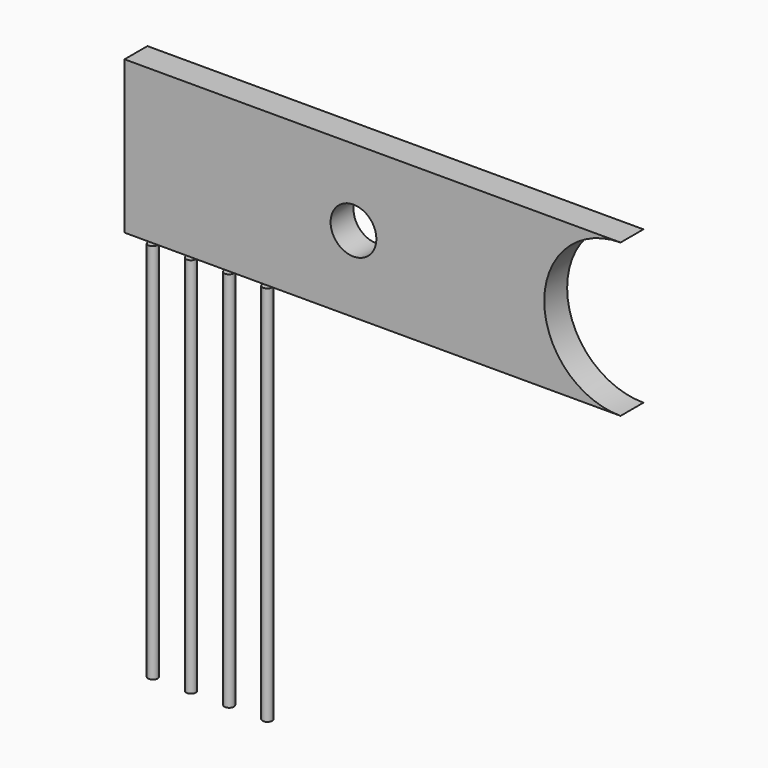
from build123d import *

# Parameters (mm, degrees)
F0_R     = 1.524
F1_DEPTH = 1.905
F2_R     = 0.3175
F3_DEPTH = 25.4
F4_R     = 5.08
F5_DEPTH = 3.83728


with BuildPart() as f1:
    # F0 (on Front) → F1 (new body)
    with BuildSketch(Plane.XZ):
        with BuildLine():
            ThreePointArc((0, -5.08), (3.592102, -3.592102), (5.08, 0))
            ThreePointArc((5.08, 0), (3.592102, 3.592102), (0, 5.08))
            Line((0, 5.08), (0, -5.08))
        make_face()
        with BuildLine():
            ThreePointArc((0, -5.08), (-5.08, 0), (0, 5.08))
            Line((0, 5.08), (-33.02, 5.08))
            Line((-33.02, 5.08), (-33.02, -5.08))
            Line((-33.02, -5.08), (0, -5.08))
        make_face()
        with Locations((-17.78, 0)):
            Circle(F0_R, mode=Mode.SUBTRACT)
    extrude(amount=F1_DEPTH)

    # F2 (on face) → F3 (join)
    with BuildSketch(Plane(origin=(0, 0, -5.08), x_dir=(1, 0, 0), z_dir=(0, 0, -1))):
        with Locations((-31.115, 1.9304)):
            Circle(F2_R)
        with Locations((-28.575, 1.9304)):
            Circle(F2_R)
        with Locations((-26.035, 1.9304)):
            Circle(F2_R)
        with Locations((-23.495, 1.9304)):
            Circle(F2_R)
    extrude(amount=F3_DEPTH)

    # F4 (on face) → F5 (cut)
    with BuildSketch(Plane(origin=(0, 0, 0), x_dir=(-1, 0, 0), z_dir=(0, 1, 0))):
        Circle(F4_R)
    extrude(amount=-F5_DEPTH, mode=Mode.SUBTRACT)


solid = f1.part
